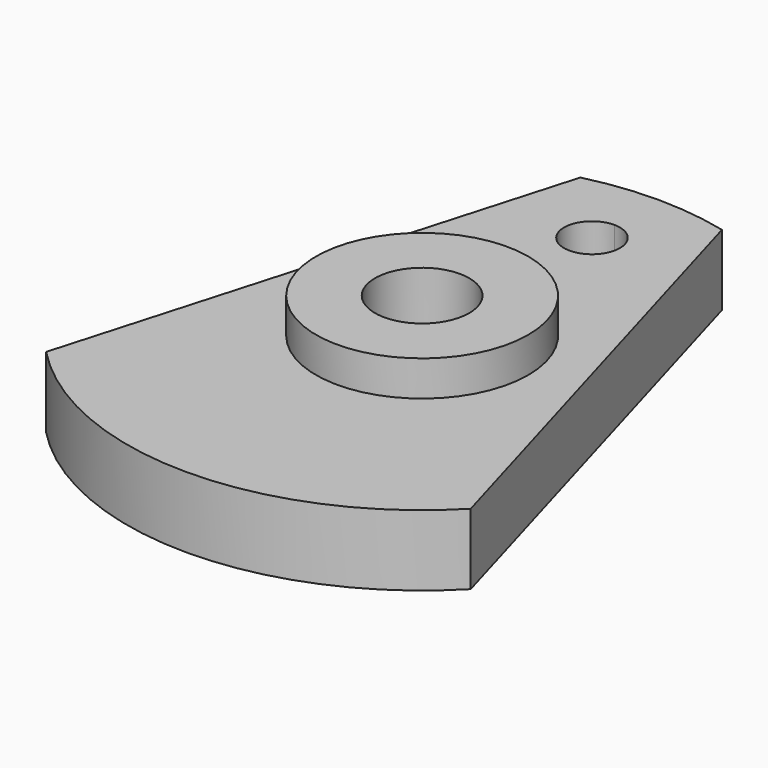
from build123d import *

# Parameters (mm, degrees)
F0_R     = 4.5
F1_DEPTH = 3
F2_R     = 4.5
F2_R_2   = 2
F3_DEPTH = 4.5


with BuildPart() as f1:
    # F0 (on Top) → F1 (new body)
    with BuildSketch(Plane.XY):
        with BuildLine():
            Line((-3, 12.134661), (-9, -8.674676))
            ThreePointArc((-9, -8.674676), (0, -12.5), (9, -8.674676))
            Line((9, -8.674676), (3, 12.134661))
            ThreePointArc((3, 12.134661), (1.511082, 12.408329), (0, 12.5))
            ThreePointArc((0, 12.5), (-1.511082, 12.408329), (-3, 12.134661))
        make_face()
        Circle(F0_R, mode=Mode.SUBTRACT)
        with BuildLine():
            ThreePointArc((1.185, 9), (-0.837922, 8.162078), (0, 10.185))
            ThreePointArc((0, 10.185), (0.837922, 9.837922), (1.185, 9))
        make_face(mode=Mode.SUBTRACT)
    extrude(amount=F1_DEPTH)

    # F2 (on face) → F3 (join)
    with BuildSketch(Plane.XY):
        Circle(F2_R)
        Circle(F2_R_2, mode=Mode.SUBTRACT)
    extrude(amount=F3_DEPTH)


solid = f1.part
